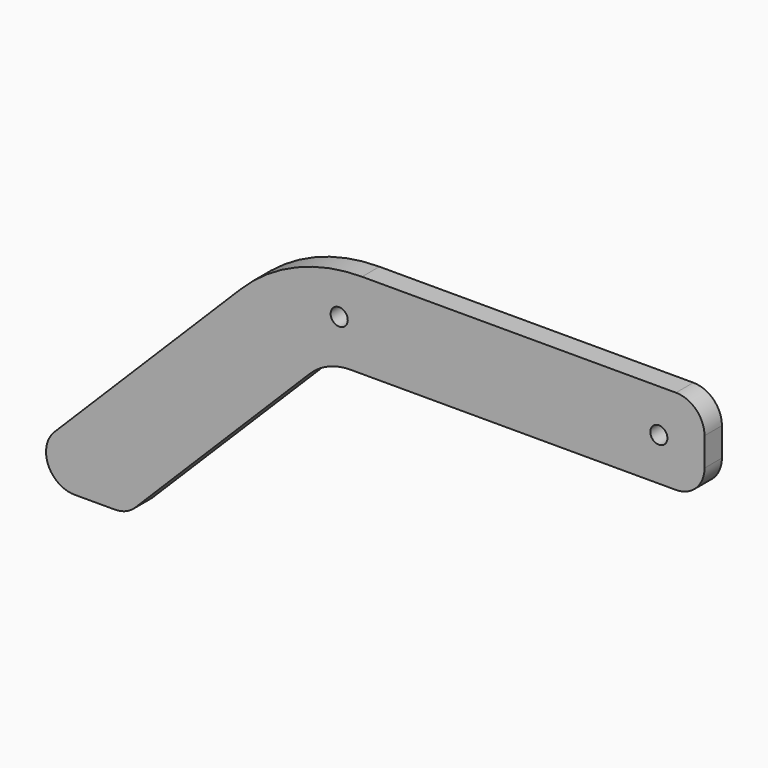
from build123d import *

# Parameters (mm, degrees)
F0_R     = 7.5
F1_DEPTH = 19.05


with BuildPart() as f1:
    # F0 (on Front) → F1 (new body)
    with BuildSketch(Plane.XZ):
        with BuildLine():
            ThreePointArc((-25, 0), (-7.32233, 7.32233), (0, 25))
            Line((0, 25), (0, 50))
            ThreePointArc((0, 50), (-7.32233, 67.67767), (-25, 75))
            Line((-25, 75), (-300, 75))
            ThreePointArc((-300, 75), (-357.402515, 63.58193), (-406.066017, 31.066017))
            Line((-406.066017, 31.066017), (-569.454365, -132.32233))
            ThreePointArc((-569.454365, -132.32233), (-574.873684, -159.567086), (-551.776695, -175))
            Line((-551.776695, -175), (-516.421356, -175))
            ThreePointArc((-516.421356, -175), (-506.85427, -173.096988), (-498.743687, -167.67767))
            Line((-498.743687, -167.67767), (-345.710678, -14.644661))
            ThreePointArc((-345.710678, -14.644661), (-329.489511, -3.806023), (-310.355339, 0))
            Line((-310.355339, 0), (-25, 0))
        make_face()
        with Locations((-320, 37.5)):
            Circle(F0_R, mode=Mode.SUBTRACT)
        with Locations((-40, 37.5)):
            Circle(F0_R, mode=Mode.SUBTRACT)
    extrude(amount=F1_DEPTH)


solid = f1.part
